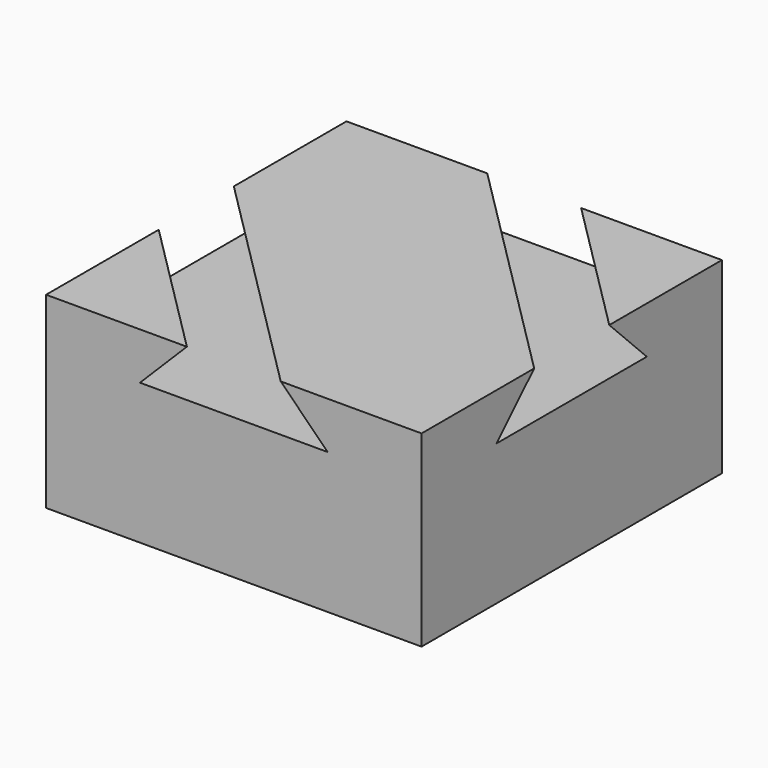
from build123d import *

# Parameters (mm, degrees)
F0_W     = 40
F0_H     = 40
F1_DEPTH = 40
F4_DEPTH = 30


with BuildPart() as f1:
    # F0 (on Top) → F1 (new body)
    with BuildSketch(Plane.XY):
        Rectangle(F0_W, F0_H)
    extrude(amount=F1_DEPTH)

    # F3 (on 3pt) → F4 (cut, symmetric)
    with BuildSketch(Plane(origin=(0, 0, 0), x_dir=(0.7071067812, 0.7071067812, 0), z_dir=(0.7071067812, -0.7071067812, 0))):
        Polygon((-28.2842712475, 40), (-28.2842712475, 20), (-17.6776695297, 20), (-21.2132034356, 15), (-7.0710678119, 15), (-10.6066017178, 20), (10.6066017178, 20), (7.0710678119, 15), (21.2132034356, 15), (17.6776695297, 20), (28.2842712475, 20), (28.2842712475, 40), align=None)
    extrude(amount=F4_DEPTH, both=True, mode=Mode.SUBTRACT)


solid = f1.part
